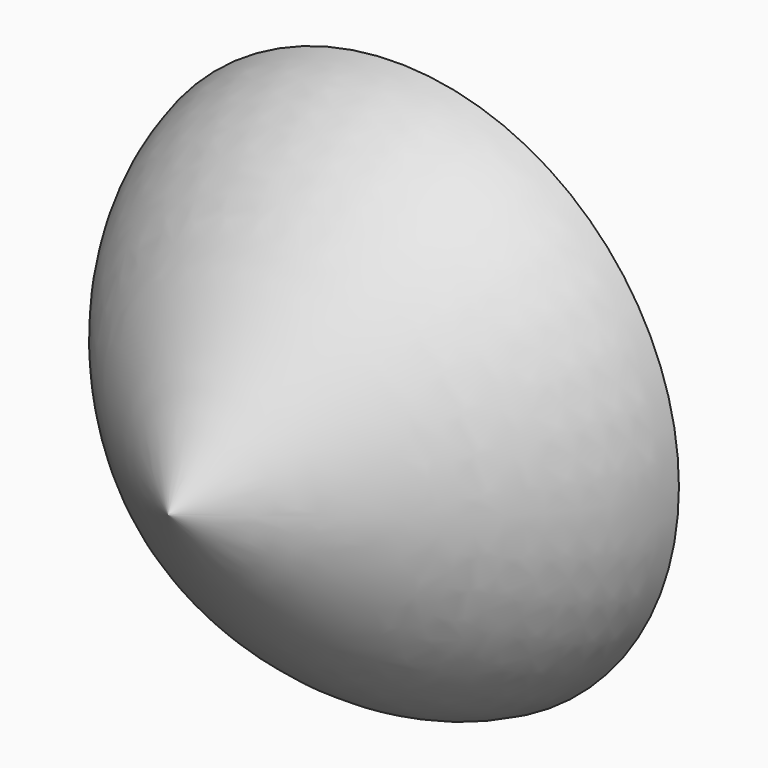
from build123d import *


with BuildPart() as f1:
    # F0 (on Top) → F1 (revolve)
    with BuildSketch(Plane.XY):
        with BuildLine():
            Line((98.5540335686, 0), (0, 0))
            Line((0, 0), (0, -100))
            add(Edge.make_bspline(
                [(98.5540335686, 0), (90.6862062948, -36.3790215773), (45.3431031474, -68.1895107887), (0, -100)],
                knots=[0.6100911062, 0.6100911062, 0.6100911062, 0.6100911062, 1, 1, 1, 1], degree=3))
        make_face()
    revolve(axis=Axis((0, -50, 0), (0, -1, 0)))


solid = f1.part
